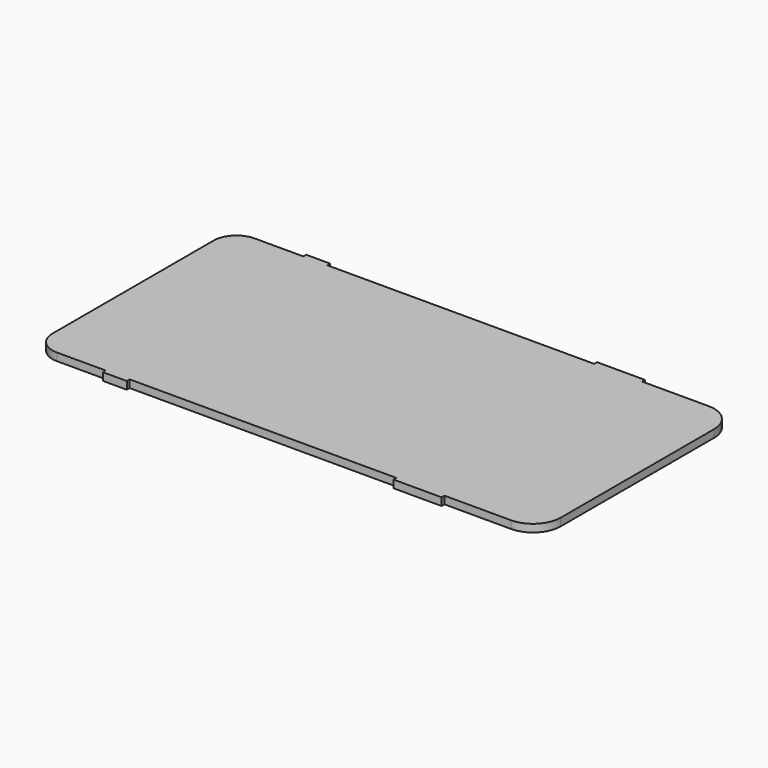
from build123d import *

# Parameters (mm, degrees)
F0_W     = 55.6136657298
F0_H     = 51.5
F0_W_2   = 10
F0_H_2   = 0.75
F0_W_3   = 5
F1_DEPTH = 1.6


with BuildPart() as f1:
    # F0 (on Top) → F1 (new body)
    with BuildSketch(Plane.XY):
        with Locations((-3.5062433155, 0)):
            Rectangle(F0_W, F0_H)
        with Locations((29.3005895494, 0)):
            Rectangle(F0_W_2, F0_H)
        with BuildLine():
            Line((34.3005895494, 25.75), (34.3005895494, -25.75))
            Line((34.3005895494, -25.75), (48.1754575549, -25.75))
            ThreePointArc((48.1754575549, -25.75), (52.2413215467, -24.0658639918), (53.9254575549, -20))
            Line((53.9254575549, -20), (53.9254575549, 20))
            ThreePointArc((53.9254575549, 20), (52.2413215467, 24.0658639918), (48.1754575549, 25.75))
            Line((48.1754575549, 25.75), (34.3005895494, 25.75))
        make_face()
        with Locations((29.3005895494, 26.125)):
            Rectangle(F0_W_2, F0_H_2)
        with Locations((29.3005895494, -26.125)):
            Rectangle(F0_W_2, F0_H_2)
        with Locations((-33.8130761804, -26.125)):
            Rectangle(F0_W_3, F0_H_2)
        with Locations((-33.8130761804, 0)):
            Rectangle(F0_W_3, F0_H)
        with BuildLine():
            ThreePointArc((-51.2033691825, -21), (-49.8121263931, -24.3587572106), (-46.4533691825, -25.75))
            Line((-46.4533691825, -25.75), (-36.3130761804, -25.75))
            Line((-36.3130761804, -25.75), (-36.3130761804, 25.75))
            Line((-36.3130761804, 25.75), (-46.4533691825, 25.75))
            ThreePointArc((-46.4533691825, 25.75), (-49.8121263931, 24.3587572106), (-51.2033691825, 21))
            Line((-51.2033691825, 21), (-51.2033691825, -21))
        make_face()
        with Locations((-33.8130761804, 26.125)):
            Rectangle(F0_W_3, F0_H_2)
    extrude(amount=F1_DEPTH)


solid = f1.part
